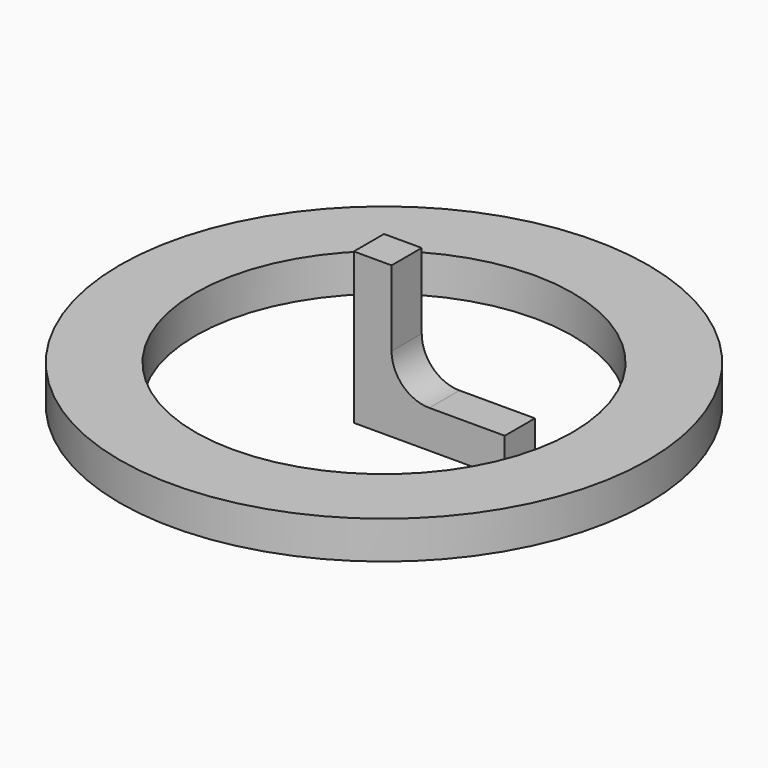
from build123d import *

# Parameters (mm, degrees)
F0_R     = 35
F0_R_2   = 25
F1_DEPTH = 5
F3_W     = 15
F3_H     = 5
F3_W_2   = 5
F3_H_2   = 15
F4_DEPTH = 5
F5_R     = 5


with BuildPart() as f1:
    # F0 (on Top) → F1 (new body)
    with BuildSketch(Plane.XY):
        Circle(F0_R)
        Circle(F0_R_2, mode=Mode.SUBTRACT)
    extrude(amount=F1_DEPTH)


with BuildPart() as f4:
    # F3 (on Front) → F4 (new body)
    with BuildSketch(Plane.XZ):
        with Locations((12.5, 2.5)):
            Rectangle(F3_W, F3_H)
        with Locations((2.5, 2.5)):
            Rectangle(F3_W_2, F3_H)
        with Locations((2.5, 12.5)):
            Rectangle(F3_W_2, F3_H_2)
    extrude(amount=F4_DEPTH)

    # F5
    f5_edges = [f4.edges().sort_by_distance(p)[0] for p in [
        (5, -2.5, 5),
    ]]
    fillet(f5_edges, radius=F5_R)


solid = Compound([f1.part, f4.part])
